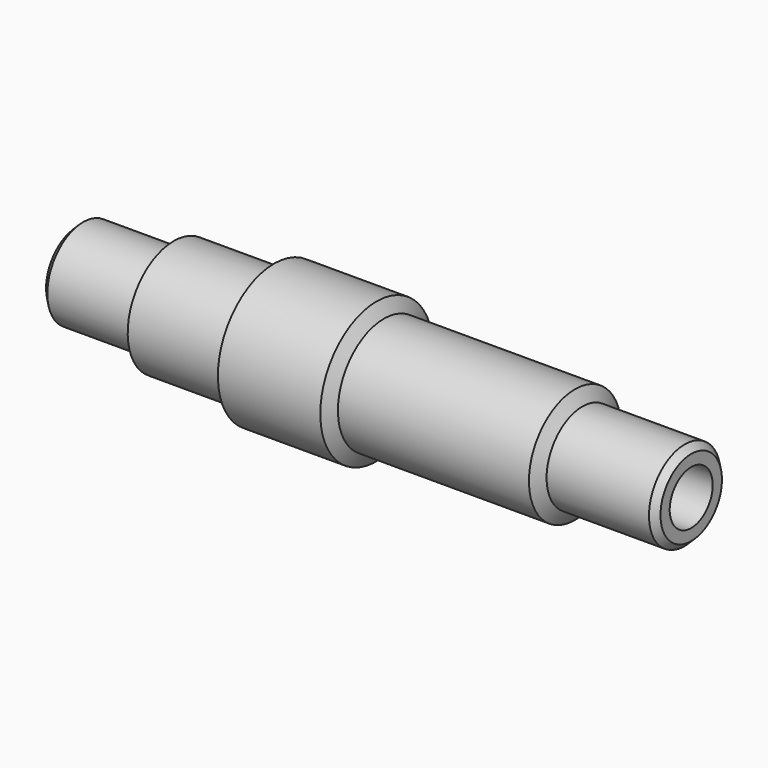
from build123d import *

# Parameters (mm, degrees)
SKETCH001_R       = 2.1
POCKET_DEPTH      = 24.001
POCKET_DEPTH_BACK = -24.001
CHAMFER_SIZE      = 0.5


with BuildPart() as part:
    # Sketch → Revolution (revolve)
    with BuildSketch(Plane.XZ):
        Polygon((24, 0), (-24, 0), (-24, 3.5), (-17, 3.5), (-16.42265, 4.5), (-9.154701, 4.5), (-8.57735, 5.5), (-0.57735, 5.5), (0, 4.5), (14.92265, 4.5), (15.5, 3.5), (24, 3.5), align=None)
    revolve(axis=Axis((0, 0, 0), (1, 0, 0)))

    # Sketch001 → Pocket (cut, two sides)
    with BuildSketch(Plane.YZ) as pocket_sk:
        Circle(SKETCH001_R)
    extrude(amount=-POCKET_DEPTH, mode=Mode.SUBTRACT)
    extrude(pocket_sk.sketch, amount=-POCKET_DEPTH_BACK, mode=Mode.SUBTRACT)

    # Chamfer
    chamfer_edges = [part.edges().sort_by_distance(p)[0] for p in [
        (-24, 0, -3.5),
        (24, 0, -3.5),
    ]]
    chamfer(chamfer_edges, length=CHAMFER_SIZE)


solid = part.part
